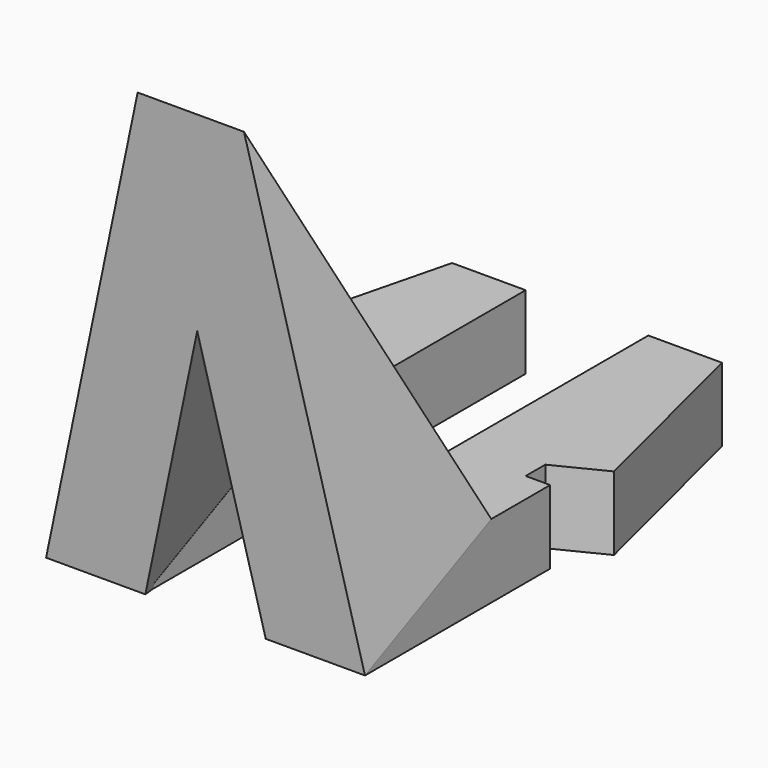
from build123d import *

# Parameters (mm, degrees)
PAD_DEPTH       = 3
POCKET_DEPTH    = 14.001
SKETCH002_W     = 13
SKETCH002_H     = 7.0986047495
PAD001_DEPTH    = 17
POCKET001_DEPTH = 14.001
POCKET002_DEPTH = 7.7802325517


with BuildPart() as part:
    # Sketch → Pad (new body)
    with BuildSketch(Plane.XY):
        Polygon((0, 0), (2, 8), (5, 8), (5, -11), (10, -11), (10, 8), (13, 8), (15, 0), (13, -1), (13, -2), (14, -2), (14, -12), (1, -12), (1, -2), (2, -2), (2, -1), align=None)
    extrude(amount=PAD_DEPTH)

    # Sketch001 (on Face4 of Pad) → Pocket (cut, through all)
    with BuildSketch(Plane.YZ.offset(14)):
        Polygon((-5, 3), (-11.4335207615, 0), (-12, 0), (-12, 3), align=None)
    extrude(amount=-POCKET_DEPTH, mode=Mode.SUBTRACT)

    # Sketch002 (on Face9 of Pocket) → Pad001 (join)
    with BuildSketch(Plane(origin=(0, -2.0420976405, 4.3792925223), x_dir=(1, 0, 0), z_dir=(0, -0.4226182617, 0.906307787))):
        with Locations((7.5, -6.8129865247)):
            Rectangle(SKETCH002_W, SKETCH002_H)
    extrude(amount=PAD001_DEPTH)

    # Sketch003 (on Face20 of Pad001) → Pocket001 (cut, through all)
    with BuildSketch(Plane.YZ.offset(14)):
        Polygon((-12.1845104496, 18.4072323796), (-11.4335207615, 0), (-18.6180312111, 15.4072323796), align=None)
    extrude(amount=-POCKET001_DEPTH, mode=Mode.SUBTRACT)

    # Sketch004 (on Face19 of Pocket001) → Pocket002 (cut, through all)
    with BuildSketch(Plane(origin=(0, -2.9579023595, -1.3792925223), x_dir=(-1, 0, 0), z_dir=(0, 0.906307787, 0.4226182617))):
        Polygon((-14, 21.8320146698), (-9.6666666667, 21.8320146698), (-14, 4.8320146698), align=None)
        Polygon((-5.3333333333, 21.8320146698), (-1, 21.8320146698), (-1, 4.8320146698), align=None)
        Polygon((-10, 4.6488008791), (-5, 4.6488008791), (-7.4999999998, 14.4564931874), align=None)
    extrude(amount=-POCKET002_DEPTH, mode=Mode.SUBTRACT)


solid = part.part
